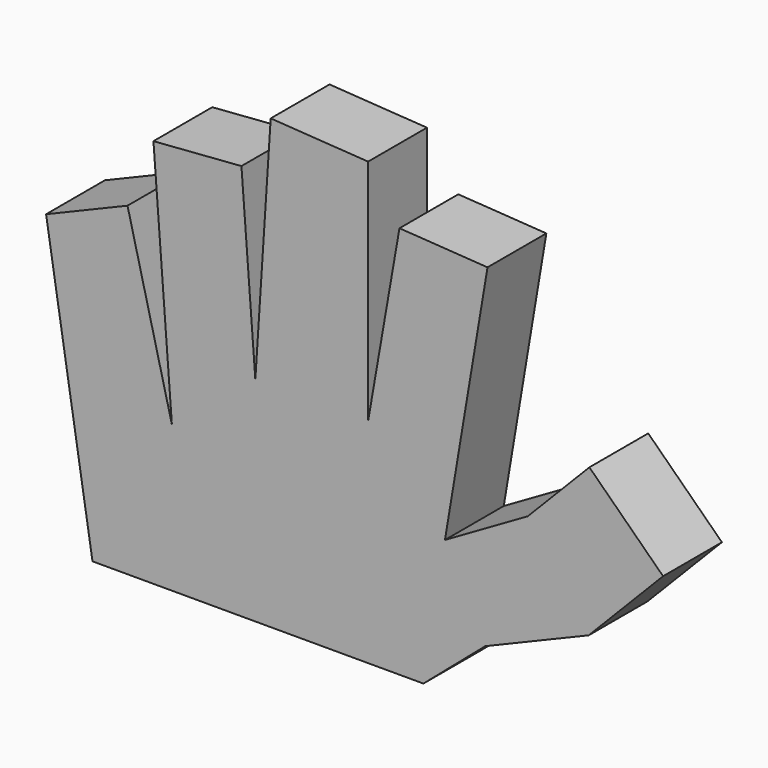
from build123d import *

# Parameters (mm, degrees)
F1_DEPTH = 5


with BuildPart() as f1:
    # F0 (on Front) → F1 (new body, symmetric)
    with BuildSketch(Plane.XZ):
        Polygon((-45, 0), (0, 0), (8.396735, 7.206781), (22.475777, 13.085932), (32.589957, 23.452093), (22.569422, 33.229049), (14.189174, 24.640019), (2.927364, 18.14605), (8.717845, 52.663731), (-3.256581, 53.446758), (-7.521497, 28.971553), (-7.521497, 60.037153), (-20.767864, 60.903354), (-22.855936, 28.971553), (-24.744828, 53.900092), (-36.710527, 52.993424), (-34.200146, 19.862823), (-40.235602, 44.123352), (-51.308924, 39.499335), align=None)
    extrude(amount=F1_DEPTH, both=True)


solid = f1.part
